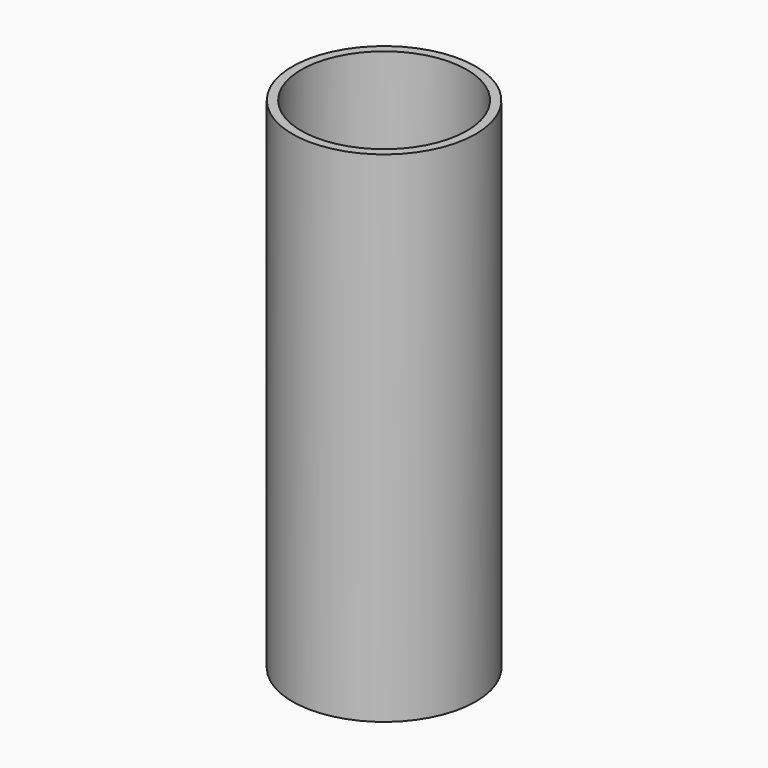
from build123d import *

# Parameters (mm, degrees)
F1_R     = 23.2946555307
F1_R_2   = 21.0386921851
F2_DEPTH = 25.4
F3_DEPTH = 101.6


with BuildPart() as f2:
    # F1 (on face) → F2 (new body)
    with BuildSketch(Plane.XY):
        Circle(F1_R)
        Circle(F1_R_2, mode=Mode.SUBTRACT)
    extrude(amount=F2_DEPTH)

    # F3 (add): a face of the model
    f3_faces = [f2.faces().sort_by_distance(p)[0] for p in [
        (-22.6357831751, 0, 0),
    ]]
    extrude(f3_faces, amount=F3_DEPTH)


solid = f2.part
